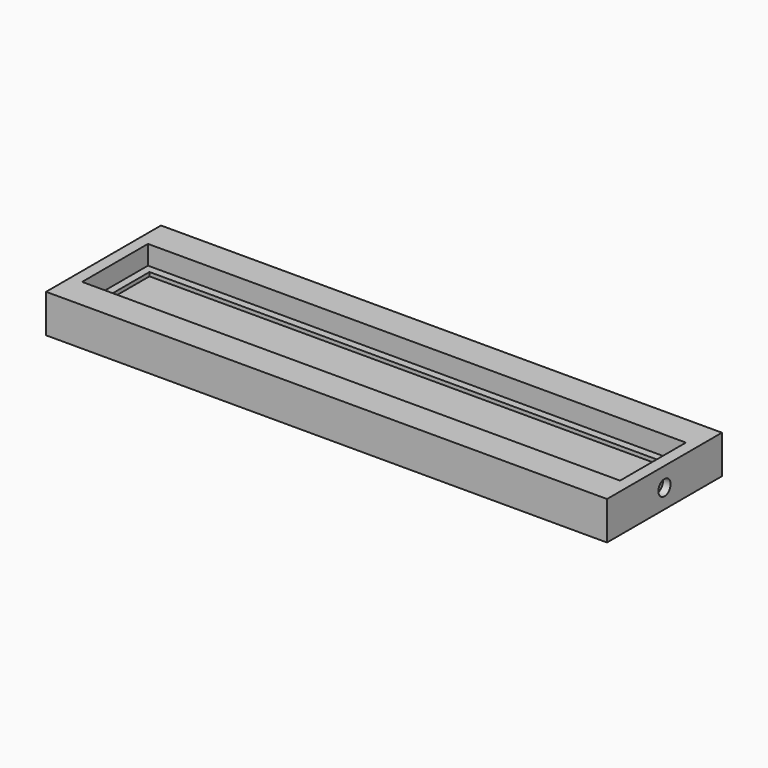
from build123d import *

# Parameters (mm, degrees)
F0_W     = 185.9026
F0_H     = 47.5996
F1_DEPTH = 12.7
F2_R     = 2.54
F3_DEPTH = 2.54
F4_R     = 2.54
F5_DEPTH = 2.54
F6_W     = 173.2026
F6_H     = 22.1996
F7_DEPTH = 7.62
F8_W     = 178.2826
F8_H     = 27.2796
F9_DEPTH = 6.35


with BuildPart() as f1:
    # F0 (on Top) → F1 (new body)
    with BuildSketch(Plane.XY):
        Rectangle(F0_W, F0_H)
    extrude(amount=F1_DEPTH)

    # F2 (on face) → F3 (cut)
    with BuildSketch(Plane.YZ.offset(92.9513)):
        with Locations((0, 6.35)):
            Circle(F2_R)
    extrude(amount=-F3_DEPTH, mode=Mode.SUBTRACT)

    # F4 (on face) → F5 (cut)
    with BuildSketch(Plane(origin=(-92.9513, 0, 0), x_dir=(0, -1, 0), z_dir=(-1, 0, 0))):
        with Locations((0, 6.35)):
            Circle(F4_R)
    extrude(amount=-F5_DEPTH, mode=Mode.SUBTRACT)

    # F6 (on face) → F7 (cut)
    with BuildSketch(Plane.XY.offset(12.7)):
        Rectangle(F6_W, F6_H)
    extrude(amount=-F7_DEPTH, mode=Mode.SUBTRACT)

    # F8 (on face) → F9 (cut)
    with BuildSketch(Plane.XY.offset(12.7)):
        Rectangle(F8_W, F8_H)
    extrude(amount=-F9_DEPTH, mode=Mode.SUBTRACT)


solid = f1.part
